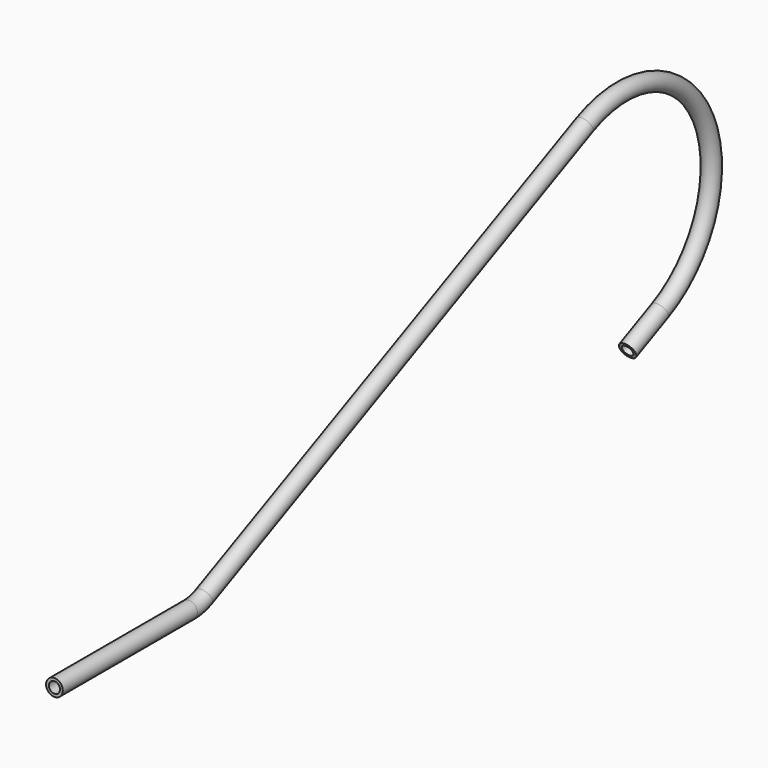
from build123d import *

# Parameters (mm, degrees)
F1_R = 4.7625
F3_T = -1.5875


with BuildPart() as f2:
    # F2: sweep along a path in F0
    with BuildLine(Plane.YZ) as f2_path:
        Line((0, 0), (95.9689555689, 0))
        ThreePointArc((95.9689555689, 0), (101.4665217629, 0.6020814192), (106.7034594171, 2.3797822093))
        Line((106.7034594171, 2.3797822093), (377.8426134888, 128.8140461786))
        ThreePointArc((377.8426134888, 128.8140461786), (462.2294175861, 98.0997613223), (431.5151327298, 13.7129572249))
        Line((431.5151327298, 13.7129572249), (408.4949149391, 2.9784533767))
    # F1 (on Front) → F2 (sweep)
    with BuildSketch(Plane.XZ):
        Circle(F1_R)
    sweep(path=f2_path.line)

    # F3
    f3_openings = [f2.faces().sort_by_distance(p)[0] for p in [
        (0, 0, 0),
        (0, 408.494915, 2.978453),
    ]]
    offset(amount=F3_T, openings=f3_openings)


solid = f2.part
